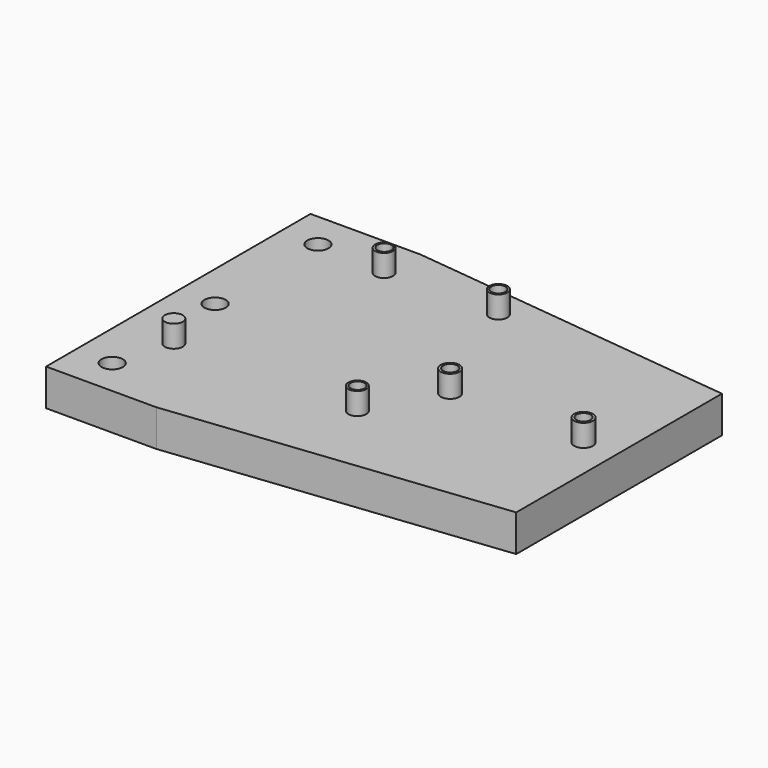
from build123d import *

# Parameters (mm, degrees)
SKETCH018_R      = 1.955414
SKETCH018_R_2    = 1.945
SKETCH018_R_3    = 1.945712
EXTRUDE021_DEPTH = 30
SKETCH017_R      = 2.552893
SKETCH017_R_2    = 2.443798
EXTRUDE020_DEPTH = 10
SKETCH003_R      = 2.9
EXTRUDE004_DEPTH = 50
EXTRUDE001_DEPTH = 10


with BuildPart() as extrude021:
    # Sketch018 (on Face20 of Fusion002) → Extrude021 (new body)
    with BuildSketch(Plane.XY.offset(36)):
        with Locations((74.789169, 44.062363)):
            Circle(SKETCH018_R)
        with Locations((111.023758, 44.110783)):
            Circle(SKETCH018_R)
        with Locations((29.159777, 78.682182)):
            Circle(SKETCH018_R_2)
        with Locations((60.039303, 78.850616)):
            Circle(SKETCH018_R_3)
        with Locations((64.412148, 25.488655)):
            Circle(SKETCH018_R_3)
    extrude(amount=EXTRUDE021_DEPTH)


with BuildPart() as extrude021_1:
    # Extrude021 placement: moved
    add(extrude021.part.moved(Location((0, 0, -22))))


with BuildPart() as base_tornillos:
    # Sketch017 (on Face5 of Cut001) → Extrude020 (new body)
    with BuildSketch(Plane.XY.offset(30)):
        with Locations((74.792107, 44.0089)):
            Circle(SKETCH017_R)
        with Locations((111.059273, 44.092655)):
            Circle(SKETCH017_R)
        with Locations((60.050713, 78.85218)):
            Circle(SKETCH017_R_2)
        with Locations((29.144051, 78.600906)):
            Circle(SKETCH017_R_2)
        with Locations((14.570175, 25.247131)):
            Circle(SKETCH017_R_2)
        with Locations((64.40612, 25.414646)):
            Circle(SKETCH017_R_2)
    extrude(amount=EXTRUDE020_DEPTH)


with BuildPart() as base_tornillos_1:
    # Extrude020 placement: moved
    add(base_tornillos.part.moved(Location((0, 0, -4))))


with BuildPart() as tornillos001:
    # Sketch003 (on Face8 of Extrude002) → Extrude004 (new body)
    with BuildSketch(Plane.XY.offset(10)):
        with Locations((10, 80.016689)):
            Circle(SKETCH003_R)
        with Locations((10, 45.008344)):
            Circle(SKETCH003_R)
        with Locations((10, 10)):
            Circle(SKETCH003_R)
    extrude(amount=EXTRUDE004_DEPTH)


with BuildPart() as tornillos001_1:
    # Extrude004 placement: moved
    add(tornillos001.part.moved(Location((0, 0, -21))))


with BuildPart() as obj1:
    # Sketch001 → Extrude001 (new body)
    with BuildSketch(Plane.XY):
        Polygon((0, 0), (30, 0), (120, 10), (120, 80), (30, 90), (0, 90), align=None)
    extrude(amount=EXTRUDE001_DEPTH)

    # Cut001: cut Tornillos001
    add(tornillos001_1.part, mode=Mode.SUBTRACT)


with BuildPart() as obj1_1:
    # Cut001 placement: moved
    add(obj1.part.moved(Location((0, 0, 20))))

    # Fusion002: union Base tornillos
    add(base_tornillos_1.part)

    # Cut009: cut Extrude021
    add(extrude021_1.part, mode=Mode.SUBTRACT)


solid = obj1_1.part
